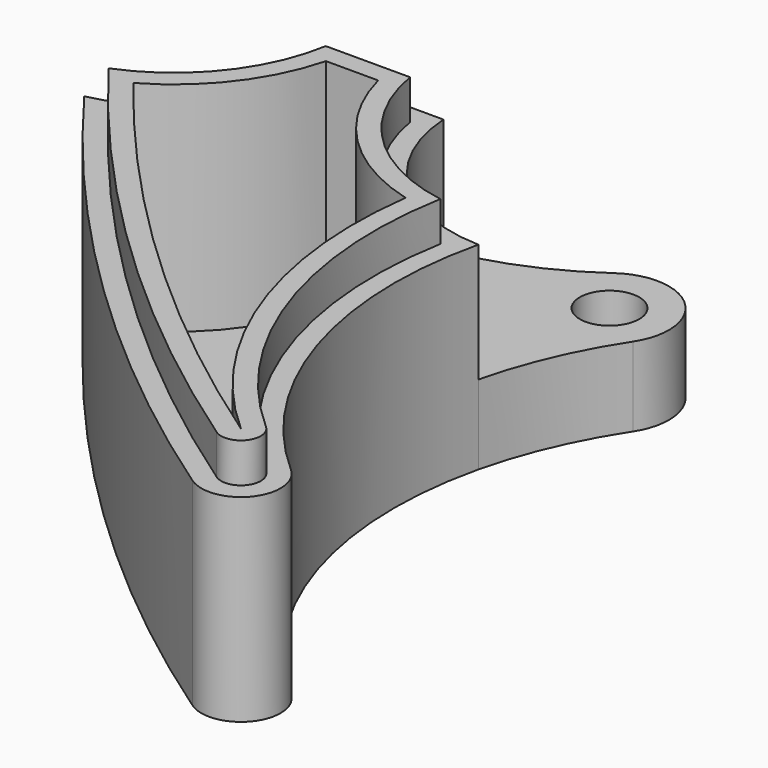
from build123d import *

# Parameters (mm, degrees)
F0_R     = 1.5
F1_DEPTH = 4
F2_DEPTH = 10
F3_DEPTH = 12
F4_DEPTH = 1


with BuildPart() as f1:
    # F0 (on Top) → F1 (new body)
    with BuildSketch(Plane.XY):
        with BuildLine():
            ThreePointArc((-11, -0.508067), (-15.861408, 0.248354), (-20.263158, 2.446095))
            ThreePointArc((-20.263158, 2.446095), (-24.062275, 2.178767), (-24.537749, -1.599947))
            ThreePointArc((-24.537749, -1.599947), (-22.469836, -4.747013), (-20.284903, -7.81399))
            ThreePointArc((-20.284903, -7.81399), (-15.928631, -5.20946), (-14.01615, -0.508067))
            Line((-14.01615, -0.508067), (-11, -0.508067))
        make_face()
        with Locations((-22, 0)):
            Circle(F0_R, mode=Mode.SUBTRACT)
        with BuildLine():
            ThreePointArc((-1.736842, 2.446095), (-6.138592, 0.248354), (-11, -0.508067))
            Line((-11, -0.508067), (-7.98385, -0.508067))
            ThreePointArc((-7.98385, -0.508067), (-5.557644, -5.754354), (-0.230172, -7.996688))
            ThreePointArc((-0.230172, -7.996688), (0.862339, -4.7022), (2.507986, -1.64621))
            ThreePointArc((2.507986, -1.64621), (2.082163, 2.159767), (-1.736842, 2.446095))
        make_face()
        Circle(F0_R, mode=Mode.SUBTRACT)
    extrude(amount=F1_DEPTH)


with BuildPart() as f2:
    # F0 (on Top) → F2 (new body)
    with BuildSketch(Plane.XY):
        with BuildLine():
            Line((-7.98385, -0.508067), (-11, -0.508067))
            Line((-11, -0.508067), (-14.01615, -0.508067))
            ThreePointArc((-14.01615, -0.508067), (-15.928631, -5.20946), (-20.284903, -7.81399))
            ThreePointArc((-20.284903, -7.81399), (-9.323059, -20.2881), (3.551962, -30.776156))
            ThreePointArc((3.551962, -30.776156), (6.26024, -30.354478), (6.004354, -27.62554))
            ThreePointArc((6.004354, -27.62554), (0.166288, -18.675297), (-0.230172, -7.996688))
            ThreePointArc((-0.230172, -7.996688), (-5.557644, -5.754354), (-7.98385, -0.508067))
        make_face()
        with BuildLine():
            ThreePointArc((-18.632998, -8.346454), (-14.989737, -5.644131), (-13.127248, -1.508067))
            Line((-13.127248, -1.508067), (-8.872752, -1.508067))
            ThreePointArc((-8.872752, -1.508067), (-6.338454, -6.389367), (-1.437035, -8.884533))
            ThreePointArc((-1.437035, -8.884533), (-0.606334, -19.520465), (5.343177, -28.37577))
            ThreePointArc((5.343177, -28.37577), (5.47112, -29.740239), (4.116981, -29.951078))
            ThreePointArc((4.116981, -29.951078), (-8.119284, -20.055701), (-18.632998, -8.346454))
        make_face(mode=Mode.SUBTRACT)
    extrude(amount=F2_DEPTH)

    # F0 (on Top) → F3 (join)
    with BuildSketch(Plane.XY):
        with BuildLine():
            Line((-8.872752, -1.508067), (-13.127248, -1.508067))
            ThreePointArc((-13.127248, -1.508067), (-14.989737, -5.644131), (-18.632998, -8.346454))
            ThreePointArc((-18.632998, -8.346454), (-8.119284, -20.055701), (4.116981, -29.951078))
            ThreePointArc((4.116981, -29.951078), (5.47112, -29.740239), (5.343177, -28.37577))
            ThreePointArc((5.343177, -28.37577), (-0.606334, -19.520465), (-1.437035, -8.884533))
            ThreePointArc((-1.437035, -8.884533), (-6.338454, -6.389367), (-8.872752, -1.508067))
        make_face()
        with BuildLine():
            Line((-12.319628, -2.508067), (-9.680372, -2.508067))
            ThreePointArc((-9.680372, -2.508067), (-7.09455, -7.047507), (-2.572414, -9.663472))
            ThreePointArc((-2.572414, -9.663472), (-1.386642, -20.30475), (4.682, -29.126))
            ThreePointArc((4.682, -29.126), (-6.984475, -19.751655), (-17.087479, -8.710174))
            ThreePointArc((-17.087479, -8.710174), (-14.071906, -6.094697), (-12.319628, -2.508067))
        make_face(mode=Mode.SUBTRACT)
    extrude(amount=F3_DEPTH)

    # F0 (on Top) → F4 (join)
    with BuildSketch(Plane.XY):
        with BuildLine():
            ThreePointArc((-2.572414, -9.663472), (-7.09455, -7.047507), (-9.680372, -2.508067))
            Line((-9.680372, -2.508067), (-12.319628, -2.508067))
            ThreePointArc((-12.319628, -2.508067), (-14.071906, -6.094697), (-17.087479, -8.710174))
            ThreePointArc((-17.087479, -8.710174), (-6.984475, -19.751655), (4.682, -29.126))
            ThreePointArc((4.682, -29.126), (-1.386642, -20.30475), (-2.572414, -9.663472))
        make_face()
    extrude(amount=F4_DEPTH)


solid = Compound([f1.part, f2.part])
